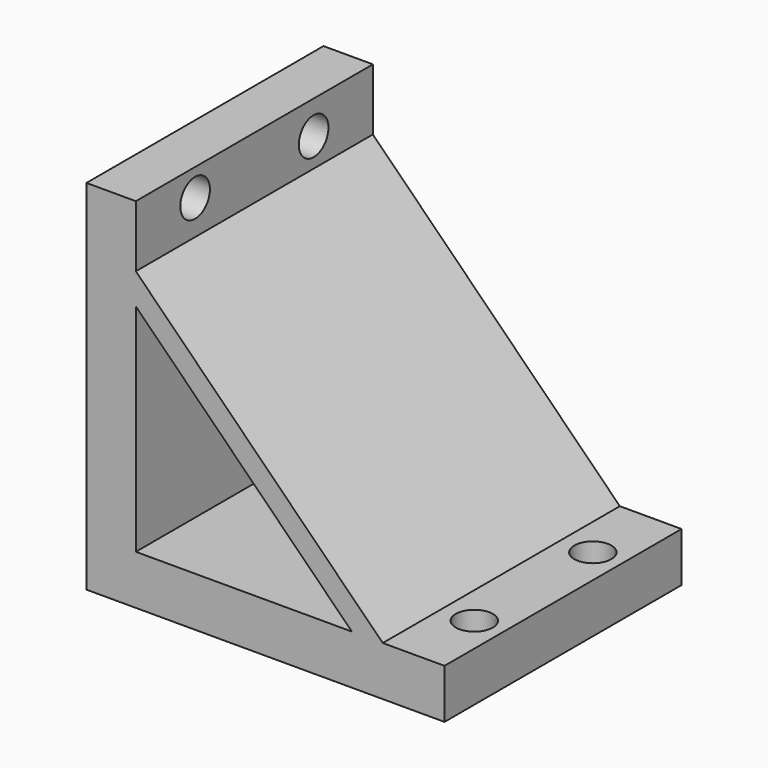
from build123d import *

# Parameters (mm, degrees)
F1_DEPTH = 48
F2_R     = 3
F3_DEPTH = 25
F4_R     = 3
F5_DEPTH = 25


with BuildPart() as f1:
    # F0 (on Front) → F1 (new body)
    with BuildSketch(Plane.XZ):
        Polygon((0, 8), (0, 0), (58, 0), (58, 8), (48, 8), (43, 8), (8, 8), align=None)
        Polygon((43, 8), (48, 8), (8, 48), (8, 43), align=None)
        Polygon((0, 58), (0, 8), (8, 8), (8, 43), (8, 48), (8, 58), align=None)
    extrude(amount=F1_DEPTH)

    # F2 (on Right) → F3 (cut)
    with BuildSketch(Plane.YZ):
        with Locations((-36, 53.59669)):
            Circle(F2_R)
        with Locations((-12, 52.631229)):
            Circle(F2_R)
    extrude(amount=F3_DEPTH, mode=Mode.SUBTRACT)

    # F4 (on Top) → F5 (cut)
    with BuildSketch(Plane.XY):
        with Locations((53.227946, -36)):
            Circle(F4_R)
        with Locations((53.227946, -12)):
            Circle(F4_R)
    extrude(amount=F5_DEPTH, mode=Mode.SUBTRACT)


solid = f1.part
